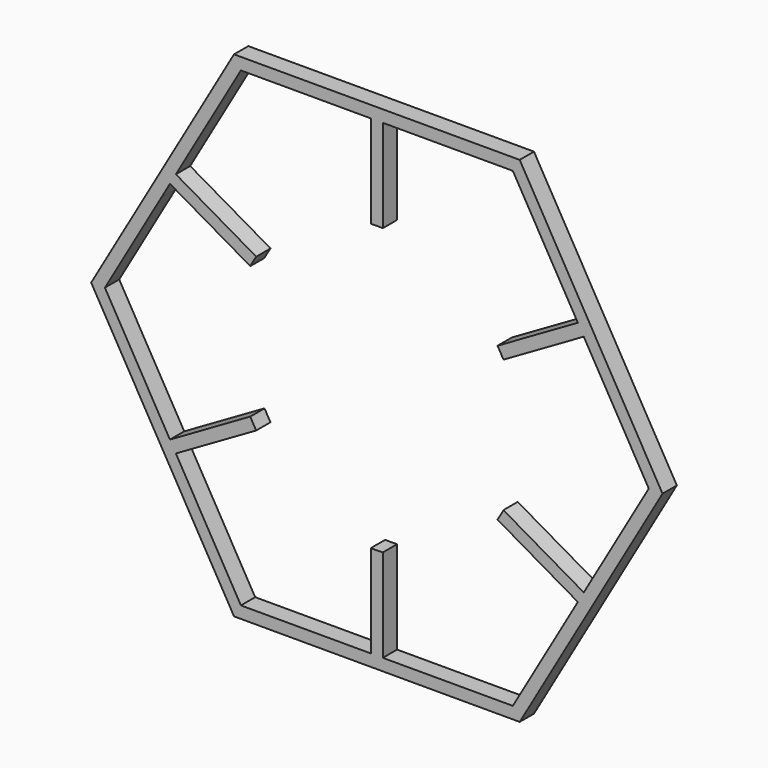
from build123d import *

# Parameters (mm, degrees)
F1_DEPTH = 38.1


with BuildPart() as f1:
    # F0 (on Front) → F1 (new body)
    with BuildSketch(Plane.XZ):
        Polygon((304.8, 527.929086147), (-304.8, 527.929086147), (-609.6, 0), (-304.8, -527.929086147), (304.8, -527.929086147), (609.6, 0), align=None)
        Polygon((12.7, 502.529086147), (290.1353031626, 502.529086147), (428.8529547439, 262.2630657016), (441.5529547439, 240.2660204454), (580.2706063252, 0), (441.5529547439, -240.2660204454), (428.8529547439, -262.2630657016), (290.1353031626, -502.529086147), (12.7, -502.529086147), (-12.7, -502.529086147), (-290.1353031626, -502.529086147), (-428.8529547439, -262.2630657016), (-441.5529547439, -240.2660204454), (-580.2706063252, 0), (-460.1003761774, 208.1409441733), (-441.5529547439, 240.2660204454), (-428.8529547439, 262.2630657016), (-290.1353031626, 502.529086147), (-12.7, 502.529086147), align=None, mode=Mode.SUBTRACT)
        with BuildLine():
            Line((12.7, 304.5353017304), (12.7, 502.529086147))
            Line((12.7, 502.529086147), (-12.7, 502.529086147))
            Line((-12.7, 502.529086147), (-12.7, 304.5353017304))
            ThreePointArc((-12.7, 304.5353017304), (0, 304.8), (12.7, 304.5353017304))
        make_face()
        with BuildLine():
            Line((-257.3853076476, 163.2661734932), (-428.8529547439, 262.2630657016))
            Line((-428.8529547439, 262.2630657016), (-441.5529547439, 240.2660204454))
            Line((-441.5529547439, 240.2660204454), (-270.0853076476, 141.2691282371))
            ThreePointArc((-270.0853076476, 141.2691282371), (-263.9645430735, 152.4), (-257.3853076476, 163.2661734932))
        make_face()
        with BuildLine():
            Line((441.5529547439, 240.2660204454), (428.8529547439, 262.2630657016))
            Line((428.8529547439, 262.2630657016), (257.3853076476, 163.2661734932))
            ThreePointArc((257.3853076476, 163.2661734932), (263.9645430735, 152.4), (270.0853076476, 141.2691282371))
            Line((270.0853076476, 141.2691282371), (441.5529547439, 240.2660204454))
        make_face()
        with BuildLine():
            Line((428.8529547439, -262.2630657016), (441.5529547439, -240.2660204454))
            Line((441.5529547439, -240.2660204454), (270.0853076476, -141.2691282371))
            ThreePointArc((270.0853076476, -141.2691282371), (263.9645430735, -152.4), (257.3853076476, -163.2661734932))
            Line((257.3853076476, -163.2661734932), (428.8529547439, -262.2630657016))
        make_face()
        with BuildLine():
            Line((-12.7, -502.529086147), (12.7, -502.529086147))
            Line((12.7, -502.529086147), (12.7, -304.5353017304))
            ThreePointArc((12.7, -304.5353017304), (0, -304.8), (-12.7, -304.5353017304))
            Line((-12.7, -304.5353017304), (-12.7, -502.529086147))
        make_face()
        with BuildLine():
            ThreePointArc((-257.3853076476, -163.2661734932), (-263.9645430735, -152.4), (-270.0853076476, -141.2691282371))
            Line((-270.0853076476, -141.2691282371), (-441.5529547439, -240.2660204454))
            Line((-441.5529547439, -240.2660204454), (-428.8529547439, -262.2630657016))
            Line((-428.8529547439, -262.2630657016), (-257.3853076476, -163.2661734932))
        make_face()
    extrude(amount=F1_DEPTH)


solid = f1.part
